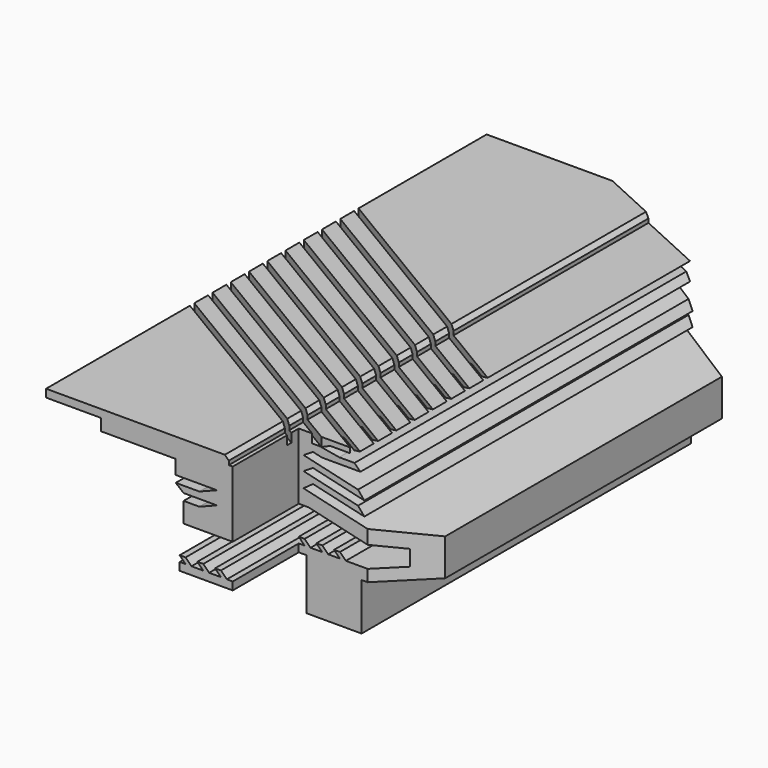
from build123d import *

# Parameters (mm, degrees)
PAD066_DEPTH        = 140.15
POCKET025_DEPTH     = 42.751
POCKET026_DEPTH     = 4.25
LINEARPATTERN_COUNT = 10
LINEARPATTERN_PITCH = 5.8055555556


with BuildPart() as part:
    # Sketch109 (on DatumPlane) → Pad066 (new body)
    with BuildSketch(Plane.XZ.offset(-232.15)):
        Polygon((-1.5, 44.35), (44, 44.35), (45, 43.35), (45, 42.35), (61.7, 42.35), (58.9121410033, 41.05), (53.9996494638, 41.05), (51.7, 40.05), (53.9996494638, 39.65), (56.2992989276, 39.25), (60.2, 39.25), (61.7, 37.75), (51.907721902, 37.75), (49.6346030244, 38.2803944048), (47.2, 36.794745537), (61.0928843686, 33.5530725177), (62.7, 31.6377866903), (49.6346030244, 34.6863793179), (47.2, 33.2007304502), (61.0928843686, 29.9590574308), (62.7, 28.0437716034), (49.6346030244, 31.0923642311), (47.2, 29.35), (74.5, 22.98), (74.5, 13.6), (62, 13.6), (62, 1.6), (48, 1.6), (48, 14.6), (32.5, 14.6), (32.5, 16.6), (34, 16.6), (32.5, 18.1), (34, 18.1), (35.5, 16.6), (38.5, 16.6), (37, 18.1), (38.5, 18.1), (40, 16.6), (43, 16.6), (41.5, 18.1), (43, 18.1), (44.5, 16.6), (47.5, 16.6), (46, 18.1), (47.5, 18.1), (49, 16.6), (52, 16.6), (50.5, 18.1), (52, 18.1), (53.5, 16.6), (56.5, 16.6), (55, 18.1), (56.5, 18.1), (58, 16.6), (69.5, 16.6), (69.5, 20.6), (48.5, 25.5), (33.5, 25.5), (33.5, 30.6), (37.5, 30.6), (42, 32.35), (33.5, 32.35), (31.5, 34), (37.5, 34), (42, 35.75), (31.5, 35.75), (31.5, 39.35), (12.5, 39.35), (12.5, 42.35), (-1.5, 42.35), align=None)
    extrude(amount=PAD066_DEPTH)

    # Sketch110 (on Face2 of Pad066) → Pocket025 (cut, through all)
    with BuildSketch(Plane(origin=(0, 232.15, 44.35), x_dir=(1, 0, 0), z_dir=(0, 0, 1))):
        Polygon((46, -161.7962), (46, -119.15), (63.5398448916, -119.15), (102.309495165, -80.3803497266), (102.309495165, -161.7962), align=None)
        Polygon((15.2813043199, 6.9694708626), (137.7083776888, -49.0965638734), (137.7083776888, 6.9694708626), align=None)
    extrude(amount=-POCKET025_DEPTH, mode=Mode.SUBTRACT)

    # Sketch111 (on Face2 of Pocket025) → Pocket026 (cut)
    with BuildSketch(Plane(origin=(0, 232.15, 44.35), x_dir=(1, 0, 0), z_dir=(0, 0, 1))):
        Polygon((-49.9825431556, -63.9110456519), (101.4245877181, -154.7553241761), (95.6823064576, -152.7093838745), (-60.3201060514, -59.1079363692), align=None)
    pocket026 = extrude(amount=-POCKET026_DEPTH, mode=Mode.SUBTRACT)

    # LinearPattern: Pocket026 ×10
    with Locations(*[(0, i * LINEARPATTERN_PITCH, 0) for i in range(1, LINEARPATTERN_COUNT)]):
        add(pocket026, mode=Mode.SUBTRACT)


solid = part.part
